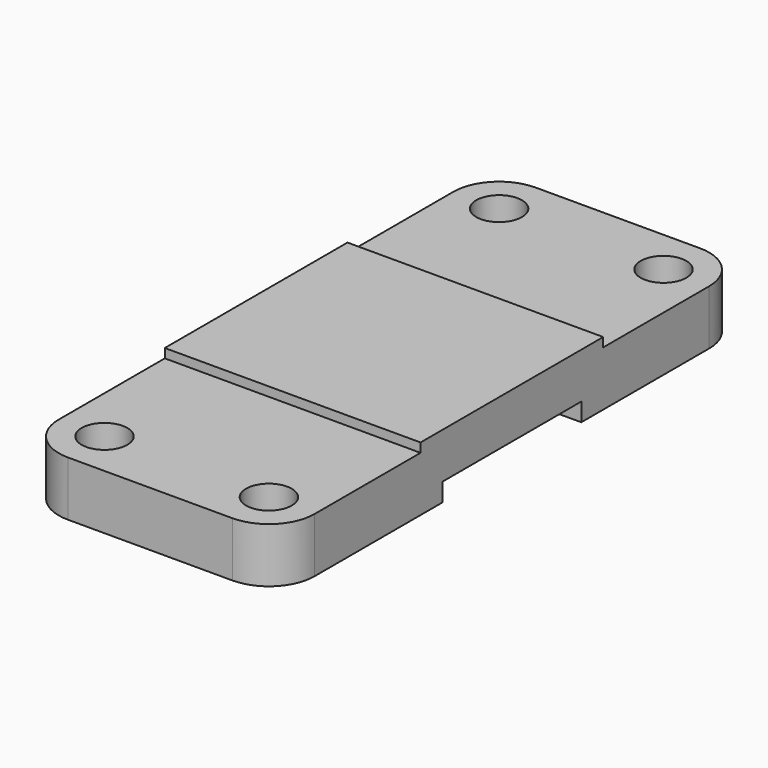
from build123d import *

# Parameters (mm, degrees)
F1_DEPTH = 28
F2_R     = 10
F3_R     = 5
F4_DEPTH = 12.001


with BuildPart() as f1:
    # F0 (on Right) → F1 (new body, symmetric)
    with BuildSketch(Plane.YZ):
        Polygon((-64, 5), (-64, -7), (-19, -7), (-19, -3), (19, -3), (19, -7), (64, -7), (64, 5), (25, 5), (25, 7), (-25, 7), (-25, 5), align=None)
    extrude(amount=F1_DEPTH, both=True)

    # F2
    f2_edges = [f1.edges().sort_by_distance(p)[0] for p in [
        (28, -64, -1),
        (-28, -64, -1),
        (28, 64, -1),
        (-28, 64, -1),
    ]]
    fillet(f2_edges, radius=F2_R)

    # F3 (on face) → F4 (cut, through all)
    with BuildSketch(Plane.XY.offset(5)):
        with Locations((-18, -54)):
            Circle(F3_R)
        with Locations((-18, 54)):
            Circle(F3_R)
        with Locations((18, 54)):
            Circle(F3_R)
        with Locations((18, -54)):
            Circle(F3_R)
    extrude(amount=-F4_DEPTH, mode=Mode.SUBTRACT)


solid = f1.part
